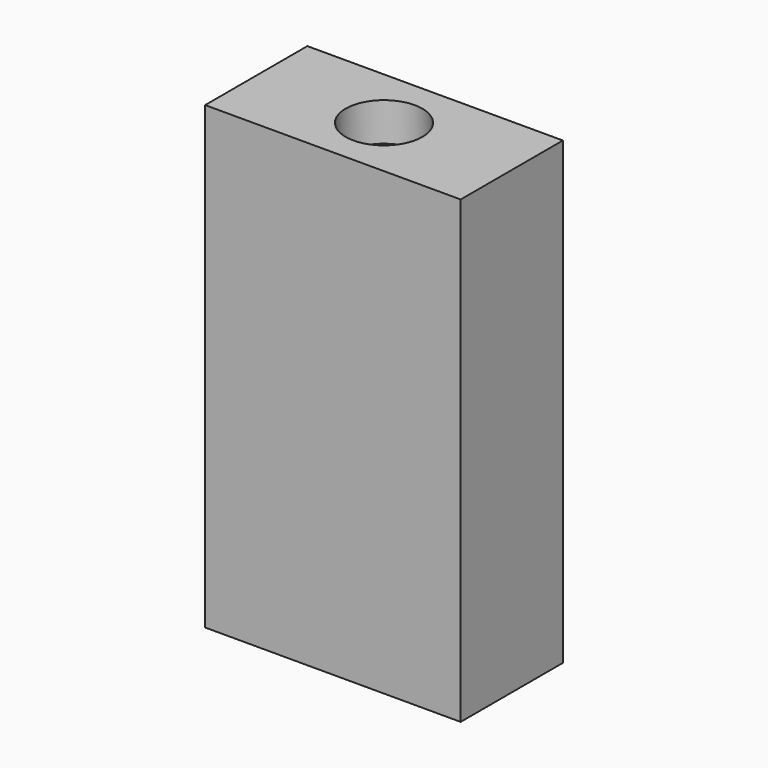
from build123d import *

# Parameters (mm, degrees)
F0_W     = 20
F0_H     = 36
F1_DEPTH = 10
F2_R     = 3
F3_DEPTH = 3
F4_R     = 3
F5_DEPTH = 3


with BuildPart() as f1:
    # F0 (on Front) → F1 (new body)
    with BuildSketch(Plane.XZ):
        with Locations((10, 18)):
            Rectangle(F0_W, F0_H)
    extrude(amount=F1_DEPTH)

    # F2 (on face) → F3 (cut)
    with BuildSketch(Plane(origin=(0, 0, 0), x_dir=(1, 0, 0), z_dir=(0, 0, -1))):
        with Locations((10, 5)):
            Circle(F2_R)
    extrude(amount=-F3_DEPTH, mode=Mode.SUBTRACT)

    # F4 (on face) → F5 (cut)
    with BuildSketch(Plane.XY.offset(36)):
        with Locations((10, -5)):
            Circle(F4_R)
    extrude(amount=-F5_DEPTH, mode=Mode.SUBTRACT)


solid = f1.part
